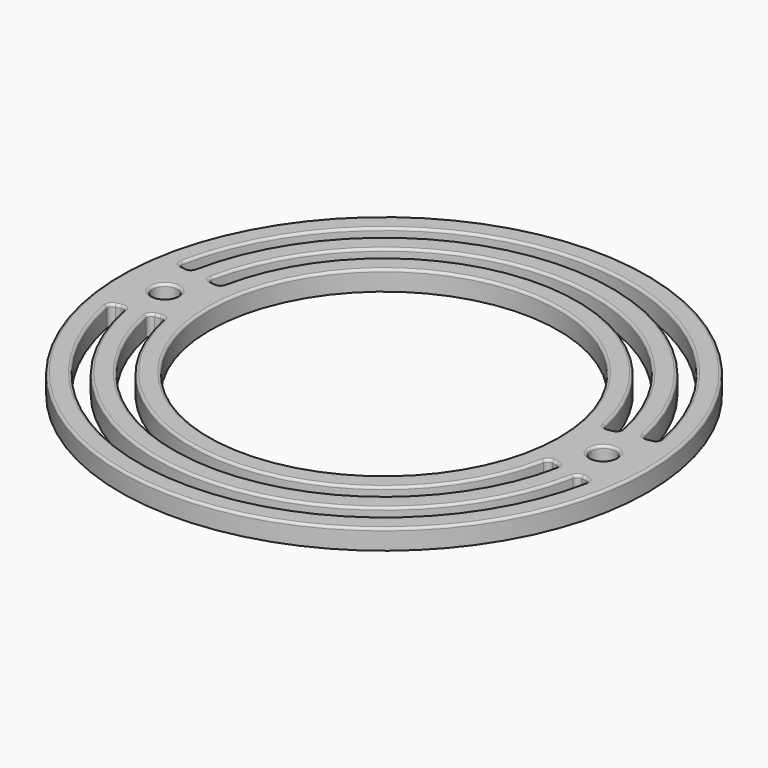
from build123d import *

# Parameters (mm, degrees)
F0_R     = 53
F0_R_2   = 2.5
F0_R_3   = 35
F1_DEPTH = 4
F2_R     = 1
F3_R     = 0.5


with BuildPart() as f1:
    # F0 (on Top) → F1 (new body)
    with BuildSketch(Plane.XY):
        Circle(F0_R)
        with BuildLine():
            Line((-48.25558, -8.508761), (-45.301157, -7.987816))
            ThreePointArc((-45.301157, -7.987816), (0, -46), (45.301157, -7.987816))
            Line((45.301157, -7.987816), (48.25558, -8.508761))
            ThreePointArc((48.25558, -8.508761), (0, -49), (-48.25558, -8.508761))
        make_face(mode=Mode.SUBTRACT)
        with BuildLine():
            Line((-41.361926, -7.293223), (-38.407502, -6.772279))
            ThreePointArc((-38.407502, -6.772279), (0, -39), (38.407502, -6.772279))
            Line((38.407502, -6.772279), (41.361926, -7.293223))
            ThreePointArc((41.361926, -7.293223), (0, -42), (-41.361926, -7.293223))
        make_face(mode=Mode.SUBTRACT)
        with Locations((-44, 0)):
            Circle(F0_R_2, mode=Mode.SUBTRACT)
        Circle(F0_R_3, mode=Mode.SUBTRACT)
        with BuildLine():
            Line((-38.407502, 6.772279), (-41.361926, 7.293223))
            ThreePointArc((-41.361926, 7.293223), (0, 42), (41.361926, 7.293223))
            Line((41.361926, 7.293223), (38.407502, 6.772279))
            ThreePointArc((38.407502, 6.772279), (0, 39), (-38.407502, 6.772279))
        make_face(mode=Mode.SUBTRACT)
        with Locations((44, 0)):
            Circle(F0_R_2, mode=Mode.SUBTRACT)
        with BuildLine():
            ThreePointArc((45.301157, 7.987816), (0, 46), (-45.301157, 7.987816))
            Line((-45.301157, 7.987816), (-48.25558, 8.508761))
            ThreePointArc((-48.25558, 8.508761), (0, 49), (48.25558, 8.508761))
            Line((48.25558, 8.508761), (45.301157, 7.987816))
        make_face(mode=Mode.SUBTRACT)
    extrude(amount=F1_DEPTH)

    # F2
    f2_edges = [f1.edges().sort_by_distance(p)[0] for p in [
        (-48.25558, 8.508761, 2),
        (-45.301157, 7.987816, 2),
        (-38.407502, 6.772279, 2),
        (-41.361926, 7.293223, 2),
        (-38.407502, -6.772279, 2),
        (-45.301157, -7.987816, 2),
        (-41.361926, -7.293223, 2),
        (-48.25558, -8.508761, 2),
        (38.407502, -6.772279, 2),
        (45.301157, -7.987816, 2),
        (41.361926, -7.293223, 2),
        (48.25558, -8.508761, 2),
        (41.361926, 7.293223, 2),
        (48.25558, 8.508761, 2),
        (38.407502, 6.772279, 2),
        (45.301157, 7.987816, 2),
    ]]
    fillet(f2_edges, radius=F2_R)

    # F3
    f3_edges = [f1.edges().sort_by_distance(p)[0] for p in [
        (-53, 0, 4),
        (0, 49, 4),
        (0, 42, 4),
        (41.5, 0, 4),
        (0, -49, 4),
        (0, -42, 4),
        (-46.5, 0, 4),
        (-35, 0, 4),
    ]]
    fillet(f3_edges, radius=F3_R)


solid = f1.part
